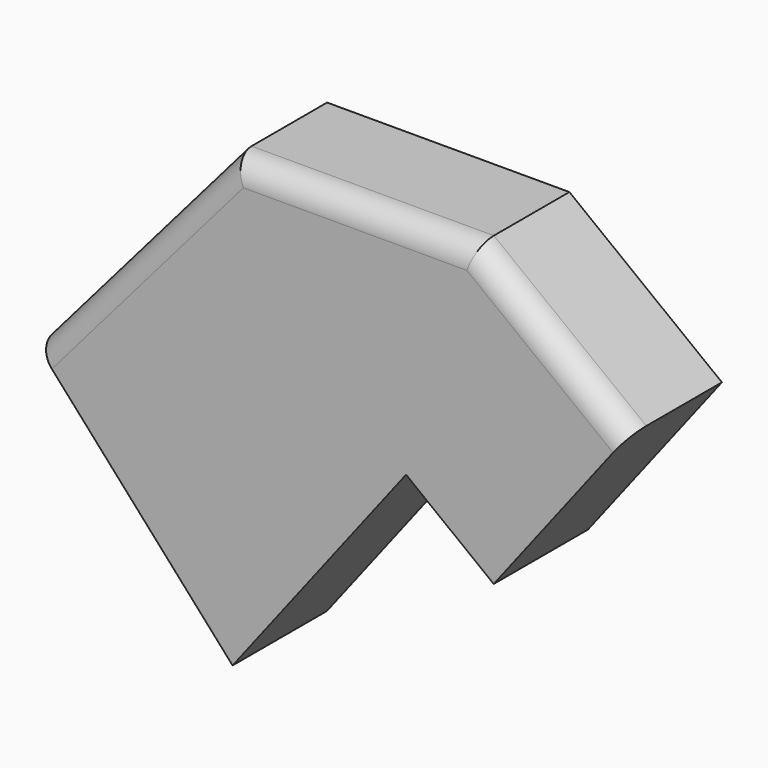
from build123d import *

# Parameters (mm, degrees)
F1_DEPTH = 25
F2_R     = 5


with BuildPart() as f1:
    # F0 (on Front) → F1 (new body)
    with BuildSketch(Plane.XZ):
        Polygon((-58.095872, 13.411373), (-16.461365, -33.184543), (20.287085, 14.35025), (38.849397, 0), (67.183668, 36.650898), (34.879841, 61.624512), (-16.44367, 61.624512), align=None)
    extrude(amount=F1_DEPTH)

    # F2
    f2_edges = [f1.edges().sort_by_distance(p)[0] for p in [
        (51.031754, -25, 49.137705),
        (9.218086, -25, 61.624512),
        (-37.269771, -25, 37.517942),
    ]]
    fillet(f2_edges, radius=F2_R)


solid = f1.part
